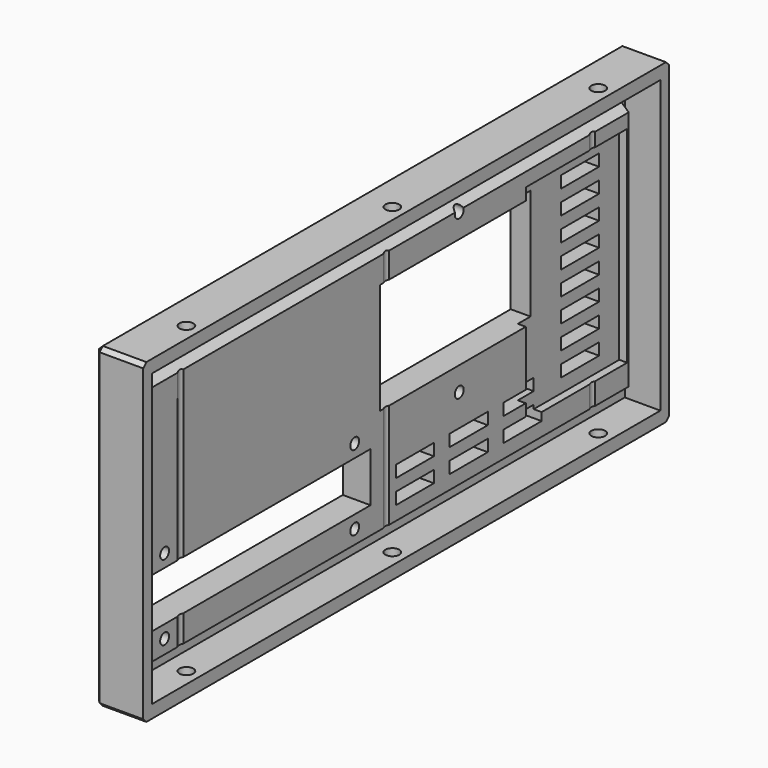
from build123d import *

# Parameters (mm, degrees)
SKETCH008_W     = 166
SKETCH008_H     = 80
PAD005_DEPTH    = 12
SKETCH009_W     = 160.5
SKETCH009_H     = 73.5
POCKET002_DEPTH = 9
SKETCH016_W     = 153
SKETCH016_H     = 63
PAD007_DEPTH    = 4
SKETCH012_R     = 1.4
SKETCH012_W     = 70
SKETCH012_H     = 12.5
SKETCH012_W_2   = 50
SKETCH012_H_2   = 28
SKETCH012_W_3   = 12
SKETCH012_H_3   = 3
POCKET008_DEPTH = 12.001
SKETCH023_R     = 1.75
POCKET011_DEPTH = 80.001
SKETCH039_W     = 32
SKETCH039_H     = 52
POCKET036_DEPTH = 2
CHAMFER033_SIZE = 1
POCKET038_DEPTH = 154


with BuildPart() as part:
    # Sketch008 → Pad005 (new body)
    with BuildSketch(Plane.YZ):
        Rectangle(SKETCH008_W, SKETCH008_H)
    extrude(amount=PAD005_DEPTH)

    # Sketch009 (on Face6 of Pad005) → Pocket002 (cut)
    with BuildSketch(Plane.YZ.offset(12)):
        Rectangle(SKETCH009_W, SKETCH009_H)
    extrude(amount=-POCKET002_DEPTH, mode=Mode.SUBTRACT)

    # Sketch016 (on Face11 of Pocket002) → Pad007 (join)
    with BuildSketch(Plane.YZ.offset(3)):
        Rectangle(SKETCH016_W, SKETCH016_H)
    extrude(amount=PAD007_DEPTH)

    # Sketch012 (on Face4 of Pocket002) → Pocket008 (cut, through all)
    with BuildSketch(Plane(origin=(0, 0, 0), x_dir=(0, 1, 0), z_dir=(-1, 0, 0))):
        with Locations((23, 11)):
            Circle(SKETCH012_R)
        with Locations((23, -29)):
            Circle(SKETCH012_R)
        with Locations((-70, 28)):
            Circle(SKETCH012_R)
        with Locations((-70, 9)):
            Circle(SKETCH012_R)
        with Locations((-10, 28)):
            Circle(SKETCH012_R)
        with Locations((-10, 9)):
            Circle(SKETCH012_R)
        with Locations((-40, 18.5)):
            Rectangle(SKETCH012_W, SKETCH012_H)
        with Locations((23, -9)):
            Rectangle(SKETCH012_W_2, SKETCH012_H_2)
        with Locations((9, 26.5)):
            Rectangle(SKETCH012_W_3, SKETCH012_H_3)
        with Locations((26, 26.5)):
            Rectangle(SKETCH012_W_3, SKETCH012_H_3)
        with Locations((43, 26.5)):
            Rectangle(SKETCH012_W_3, SKETCH012_H_3)
        with Locations((9, 20.5)):
            Rectangle(SKETCH012_W_3, SKETCH012_H_3)
        with Locations((26, 20.5)):
            Rectangle(SKETCH012_W_3, SKETCH012_H_3)
        with Locations((43, 20.5)):
            Rectangle(SKETCH012_W_3, SKETCH012_H_3)
        with Locations((63.63, 21)):
            Rectangle(SKETCH012_W_3, SKETCH012_H_3)
        with Locations((63.63, 15)):
            Rectangle(SKETCH012_W_3, SKETCH012_H_3)
        with Locations((63.63, 9)):
            Rectangle(SKETCH012_W_3, SKETCH012_H_3)
        with Locations((63.63, 3)):
            Rectangle(SKETCH012_W_3, SKETCH012_H_3)
        with Locations((63.63, -3)):
            Rectangle(SKETCH012_W_3, SKETCH012_H_3)
        with Locations((63.63, -9)):
            Rectangle(SKETCH012_W_3, SKETCH012_H_3)
        with Locations((63.63, -15)):
            Rectangle(SKETCH012_W_3, SKETCH012_H_3)
        with Locations((63.63, -21)):
            Rectangle(SKETCH012_W_3, SKETCH012_H_3)
    extrude(amount=-POCKET008_DEPTH, mode=Mode.SUBTRACT)

    # Sketch023 (on Face1 of Pocket008) → Pocket011 (cut, through all)
    with BuildSketch(Plane(origin=(0, 0, 40), x_dir=(0, -1, 0), z_dir=(0, 0, 1))):
        with Locations((-65, 8.5)):
            Circle(SKETCH023_R)
        with Locations((65, 8.5)):
            Circle(SKETCH023_R)
        with Locations((0, 8.5)):
            Circle(SKETCH023_R)
    extrude(amount=-POCKET011_DEPTH, mode=Mode.SUBTRACT)

    # Sketch039 → Pocket036 (cut)
    with BuildSketch(Plane.YZ.offset(7)):
        with Locations((60, 0)):
            Rectangle(SKETCH039_W, SKETCH039_H)
    extrude(amount=-POCKET036_DEPTH, mode=Mode.SUBTRACT)

    # Chamfer033
    chamfer033_edges = [part.edges().sort_by_distance(p)[0] for p in [
        (6, -83, 40),
        (6, 83, 40),
        (6, -83, -40),
        (6, 83, -40),
        (0, 83, 0),
        (0, 0, -40),
        (0, -83, 0),
        (0, 0, 40),
    ]]
    chamfer(chamfer033_edges, length=CHAMFER033_SIZE)

    # Sketch056 (on Face103 of Chamfer033) → Pocket038 (cut)
    with BuildSketch(Plane(origin=(0, -76.5, 0), x_dir=(0, 0, -1), z_dir=(0, -1, 0))):
        Polygon((-31.764254, 4.395752), (-28.984535, 7.542603), (-32.262505, 7.752388), align=None)
    extrude(amount=-POCKET038_DEPTH, mode=Mode.SUBTRACT)


with BuildPart() as part_1:
    # Body004 placement: moved
    add(part.part.moved(Location((-128.5, 0, 0))))


solid = part_1.part
